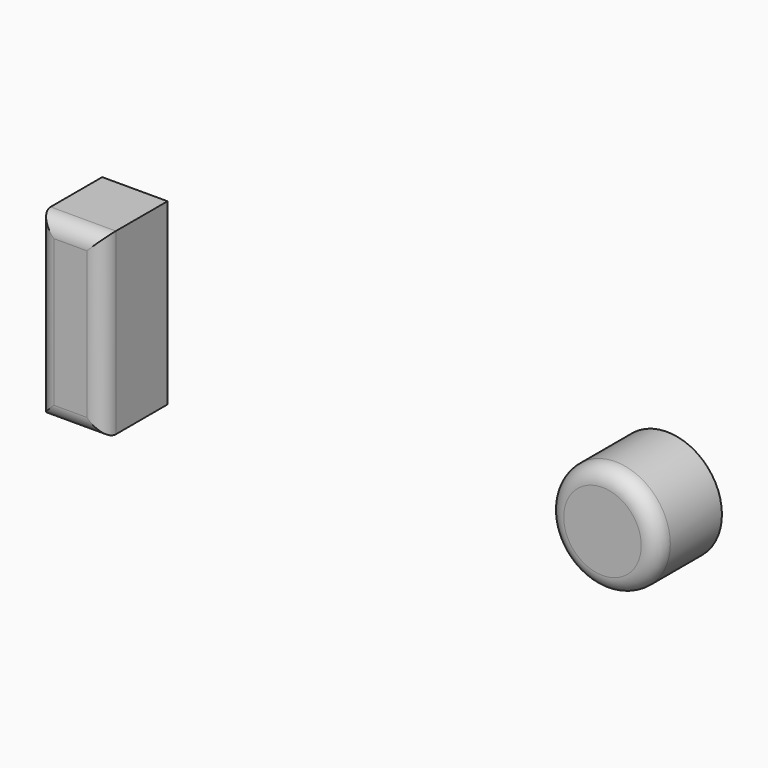
from build123d import *

# Parameters (mm, degrees)
F0_W     = 20.568713
F0_H     = 56.347868
F0_R     = 17.289421
F1_DEPTH = 25.4
F2_R     = 5.08


with BuildPart() as f1:
    # F0 (on Front) → F1 (new body)
    with BuildSketch(Plane.XZ):
        with Locations((-96.615016, 24.110832)):
            Rectangle(F0_W, F0_H)
        with Locations((70.976548, 22.227371)):
            Circle(F0_R)
    extrude(amount=F1_DEPTH)

    # F2
    f2_edges = [f1.edges().sort_by_distance(p)[0] for p in [
        (-96.615016, -25.4, 52.284766),
        (-106.899373, -25.4, 24.110832),
        (-96.615016, -25.4, -4.063102),
        (-86.33066, -25.4, 24.110832),
        (53.687127, -25.4, 22.227371),
    ]]
    fillet(f2_edges, radius=F2_R)


solid = f1.part
